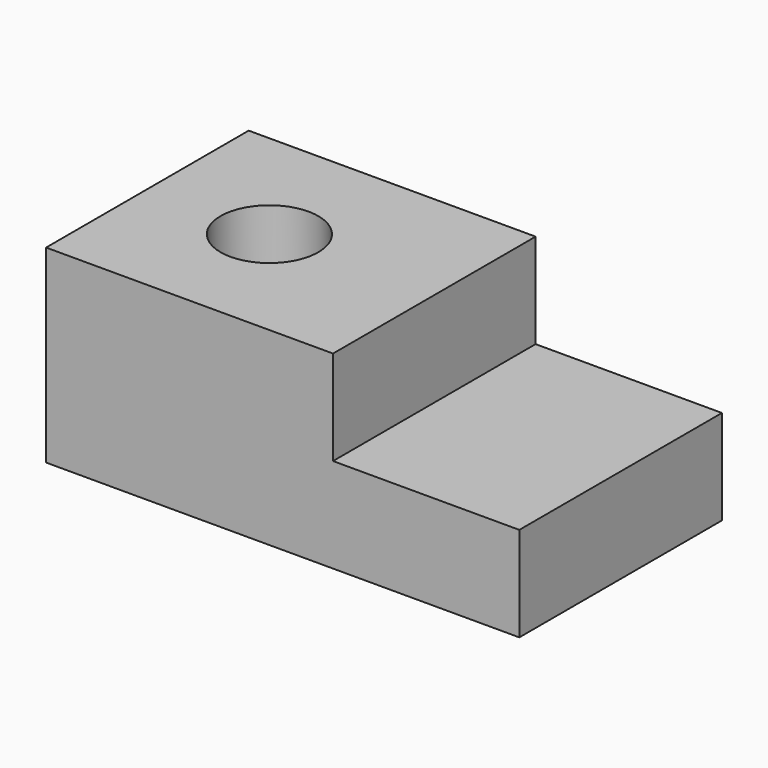
from build123d import *

# Parameters (mm, degrees)
F0_W           = 25.4
F0_H           = 13.5920988396
F1_DEPTH       = 10.16
F2_D           = 5.25
F2_CBORE_D     = 8
F2_CBORE_DEPTH = 5
F3_W           = 10
F3_H           = 5.08
F4_DEPTH       = 25.4


with BuildPart() as f1:
    # F0 (on Top) → F1 (new body)
    with BuildSketch(Plane.XY):
        with Locations((12.7, 6.7960494198)):
            Rectangle(F0_W, F0_H)
    extrude(amount=F1_DEPTH)

    # F2 (through all)
    with Locations(Plane(origin=(0, 0, 0), x_dir=(1, 0, 0), z_dir=(0, 0, -1))):
        with Locations((6.5504941158, -6.7960494198)):
            CounterBoreHole(F2_D / 2, F2_CBORE_D / 2, F2_CBORE_DEPTH)

    # F3 (on face) → F4 (cut)
    with BuildSketch(Plane(origin=(0, 13.5920988396, 0), x_dir=(-1, 0, 0), z_dir=(0, 1, 0))):
        with Locations((-20.4, 7.62)):
            Rectangle(F3_W, F3_H)
    extrude(amount=-F4_DEPTH, mode=Mode.SUBTRACT)


solid = f1.part
